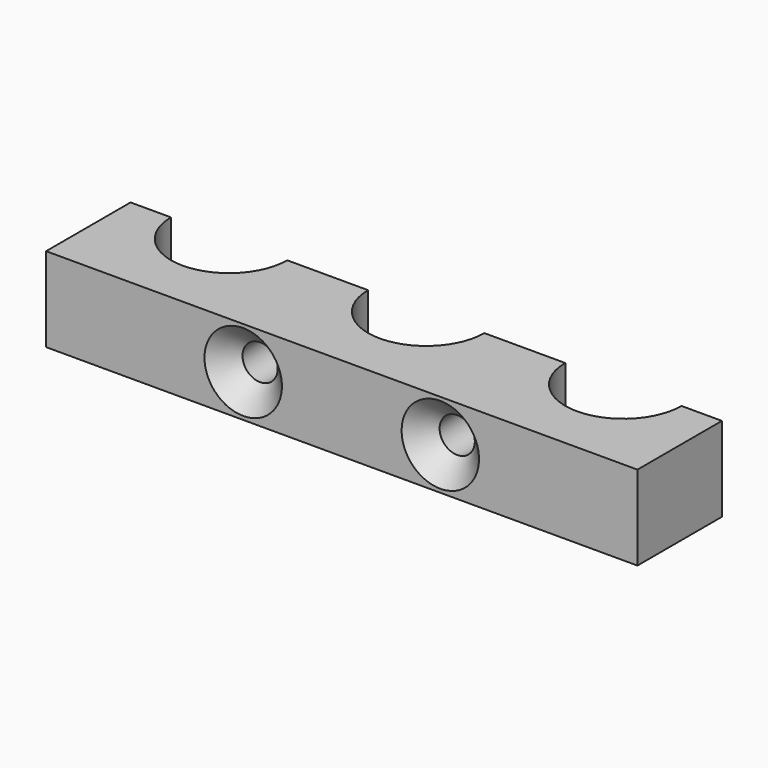
from build123d import *

# Parameters (mm, degrees)
SKETCH_W               = 84
SKETCH_H               = 15
PAD_DEPTH              = 12
SKETCH001_R            = 8.25
POCKET_DEPTH           = 12.001
LINEARPATTERN001_COUNT = 3
LINEARPATTERN001_PITCH = 28
HOLE_D                 = 5
HOLE_CSINK_D           = 11
HOLE_CSINK_ANGLE       = 90
LINEARPATTERN_COUNT    = 2
LINEARPATTERN_PITCH    = 28


with BuildPart() as part:
    # Sketch → Pad (new body)
    with BuildSketch(Plane.XY):
        with Locations((42, 7.5)):
            Rectangle(SKETCH_W, SKETCH_H)
    extrude(amount=PAD_DEPTH)

    # Sketch001 (on DatumPlane) → Pocket (cut, through all)
    with BuildSketch(Plane.XY.offset(12)):
        with Locations((14, 15)):
            Circle(SKETCH001_R)
    pocket = extrude(amount=-POCKET_DEPTH, mode=Mode.SUBTRACT)

    # LinearPattern001: Pocket ×3
    with Locations(*[(i * LINEARPATTERN001_PITCH, 0, 0) for i in range(1, LINEARPATTERN001_COUNT)]):
        add(pocket, mode=Mode.SUBTRACT)

    # Hole (through all)
    with Locations(Plane.XZ):
        with Locations((28, 6)):
            hole = CounterSinkHole(HOLE_D / 2, HOLE_CSINK_D / 2, counter_sink_angle=HOLE_CSINK_ANGLE)

    # LinearPattern: Hole ×2
    with Locations(*[(i * LINEARPATTERN_PITCH, 0, 0) for i in range(1, LINEARPATTERN_COUNT)]):
        add(hole, mode=Mode.SUBTRACT)


solid = part.part
